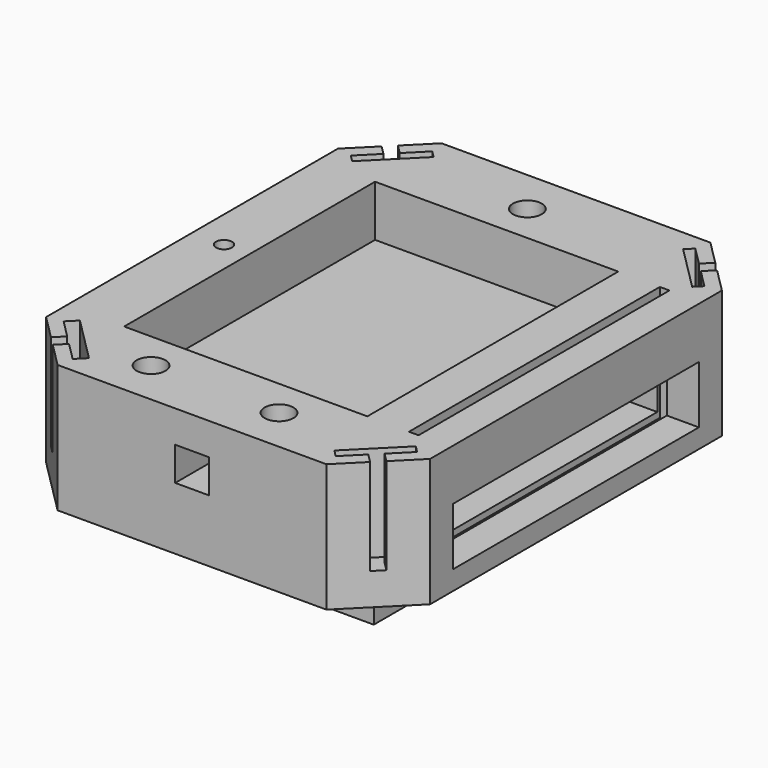
from build123d import *

# Parameters (mm, degrees)
F1_DEPTH  = 20
F2_DEPTH  = 20
F4_DEPTH  = 15
F5_W      = 44
F5_H      = 59
F5_W_2    = 34
F5_H_2    = 49
F7_DEPTH  = 25
F8_DEPTH  = 20
F6_W      = 48
F6_H      = 9
F9_DEPTH  = 45
F10_W     = 1.5
F10_H     = 49
F11_DEPTH = 18
F12_W     = 49
F12_H     = 20
F13_DEPTH = 4
F14_W     = 49
F14_H     = 1
F15_DEPTH = 39
F16_R     = 2.25
F16_R_2   = 1.25
F17_DEPTH = 10
F18_W     = 5.25
F18_H     = 5.25
F19_DEPTH = 15


with BuildPart() as f1:
    # F0 (on Top) → F1 (new body)
    with BuildSketch(Plane.XY):
        Polygon((0, 66), (0, 9), (9, 0), (51, 0), (60, 9), (60, 66), (51, 75), (9, 75), align=None)
    extrude(amount=F1_DEPTH)

    # F0 (on Top) → F2 (join)
    with BuildSketch(Plane.XY):
        Polygon((0, 66), (0, 9), (9, 0), (51, 0), (60, 9), (60, 66), (51, 75), (9, 75), align=None)
    extrude(amount=F2_DEPTH)

    # F3 (on face) → F4 (cut)
    with BuildSketch(Plane.XY.offset(20)):
        Polygon((5.2071067812, 71.2071067812), (3.7928932188, 69.7928932188), (5.2071067812, 68.3786796564), (6.6213203436, 69.7928932188), align=None)
        Polygon((6.6213203436, 69.7928932188), (5.2071067812, 68.3786796564), (2.3786796564, 65.5502525317), (3.4393398282, 64.4895923599), (10.5104076401, 71.5606601718), (9.4497474683, 72.6213203436), align=None)
        Polygon((2.3786796564, 9.4497474683), (5.2071067812, 6.6213203436), (6.6213203436, 5.2071067812), (9.4497474683, 2.3786796564), (10.8639610307, 3.7928932188), (3.7928932188, 10.8639610307), align=None)
        Polygon((5.2071067812, 6.6213203436), (3.7928932188, 5.2071067812), (5.2071067812, 3.7928932188), (6.6213203436, 5.2071067812), align=None)
        Polygon((53.3786796564, 5.2071067812), (54.7928932188, 3.7928932188), (56.2071067812, 5.2071067812), (54.7928932188, 6.6213203436), align=None)
        Polygon((50.5502525317, 2.3786796564), (53.3786796564, 5.2071067812), (54.7928932188, 6.6213203436), (57.6213203436, 9.4497474683), (56.5606601718, 10.5104076401), (49.4895923599, 3.4393398282), align=None)
        Polygon((54.7928932188, 68.3786796564), (53.3786796564, 69.7928932188), (50.5502525317, 72.6213203436), (49.4895923599, 71.5606601718), (56.5606601718, 64.4895923599), (57.6213203436, 65.5502525317), align=None)
        Polygon((56.2071067812, 69.7928932188), (54.7928932188, 71.2071067812), (53.3786796564, 69.7928932188), (54.7928932188, 68.3786796564), align=None)
    extrude(amount=-F4_DEPTH, mode=Mode.SUBTRACT)

    # F5 (on face) → F7 (join)
    with BuildSketch(Plane.XY.offset(20)):
        with Locations((30, 37.5)):
            Rectangle(F5_W, F5_H)
        with Locations((30, 37.5)):
            Rectangle(F5_W_2, F5_H_2, mode=Mode.SUBTRACT)
        with Locations((30, 37.5)):
            Rectangle(F5_W_2, F5_H_2)
    extrude(amount=-F7_DEPTH)

    # F5 (on face) → F8 (cut)
    with BuildSketch(Plane.XY.offset(20)):
        with Locations((30, 37.5)):
            Rectangle(F5_W_2, F5_H_2)
    extrude(amount=-F8_DEPTH, mode=Mode.SUBTRACT)

    # F6 (on face) → F9 (cut)
    with BuildSketch(Plane.YZ.offset(60)):
        with Locations((37.5, 7.5)):
            Rectangle(F6_W, F6_H)
    extrude(amount=-F9_DEPTH, mode=Mode.SUBTRACT)

    # F10 (on face) → F11 (cut)
    with BuildSketch(Plane.XY.offset(20)):
        with Locations((54.25, 37.5)):
            Rectangle(F10_W, F10_H)
    extrude(amount=-F11_DEPTH, mode=Mode.SUBTRACT)

    # F12 (on face) → F13 (cut)
    with BuildSketch(Plane.YZ.offset(13)):
        with Locations((37.5, 10)):
            Rectangle(F12_W, F12_H)
    extrude(amount=-F13_DEPTH, mode=Mode.SUBTRACT)

    # F14 (on face) → F15 (join)
    with BuildSketch(Plane.YZ.offset(9)):
        with Locations((37.5, 11.5)):
            Rectangle(F14_W, F14_H)
    extrude(amount=F15_DEPTH)

    # F16 (on face) → F17 (cut)
    with BuildSketch(Plane.XY.offset(20)):
        with Locations((18, 7)):
            Circle(F16_R)
        with Locations((28, 68)):
            Circle(F16_R)
        with Locations((5, 37.5)):
            Circle(F16_R_2)
        with Locations((38, 7)):
            Circle(F16_R)
    extrude(amount=-F17_DEPTH, mode=Mode.SUBTRACT)

    # F18 (on face) → F19 (cut)
    with BuildSketch(Plane.XZ):
        with Locations((30, 12.375)):
            Rectangle(F18_W, F18_H)
    extrude(amount=-F19_DEPTH, mode=Mode.SUBTRACT)


solid = f1.part
